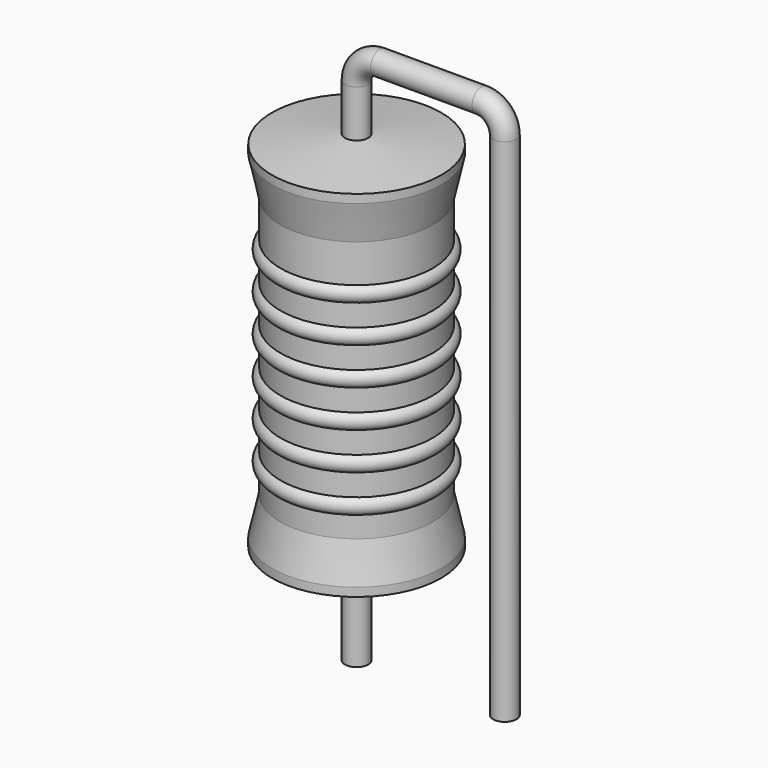
from build123d import *

# Parameters (mm, degrees)
SKETCH_R = 0.4


with BuildPart() as sweep_body:
    # Sweep: sweep along a path in Sketch001
    with BuildLine(Plane.XZ) as sweep_path:
        Line((0, -3), (0, 14.5))
        ThreePointArc((0, 14.5), (0.23431, 15.065681), (0.799987, 15.3))
        Line((0.799987, 15.3), (4.28, 15.3))
        ThreePointArc((4.28, 15.3), (4.845685, 15.065685), (5.08, 14.5))
        Line((5.08, 14.5), (5.08, -3))
    # Sketch → Sweep (sweep)
    with BuildSketch(Plane.XY.offset(-2)):
        Circle(SKETCH_R)
    sweep(path=sweep_path.line)


with BuildPart() as revolution:
    # Sketch002 → Revolution (revolve)
    with BuildSketch(Plane.XZ):
        Polygon((0, 0.1), (0, 12.9), (0.3, 12.9), (2.9, 12.58), (2.9, 12.2875), (2.61, 10.98), (2.61, 2.02), (2.9, 0.7125), (2.9, 0.42), (0.3, 0.1), align=None)
    revolve(axis=Axis((0, 0, 0), (0, 0, 1)))


with BuildPart() as revolution001:
    # Sketch003 → Revolution001 (revolve)
    with BuildSketch(Plane.XZ):
        with BuildLine():
            Line((2.32, 10.4), (2.32, 2.02))
            Line((2.32, 2.02), (2.494, 2.02))
            Line((2.494, 2.02), (2.494, 2.72))
            ThreePointArc((2.494, 2.72), (2.784, 3.01), (2.494, 3.3))
            Line((2.494, 3.3), (2.494, 4))
            ThreePointArc((2.494, 4), (2.784, 4.29), (2.494, 4.58))
            Line((2.494, 4.58), (2.494, 5.28))
            ThreePointArc((2.494, 5.28), (2.784, 5.57), (2.494, 5.86))
            Line((2.494, 5.86), (2.494, 6.56))
            ThreePointArc((2.494, 6.56), (2.784, 6.85), (2.494, 7.14))
            Line((2.494, 7.14), (2.494, 7.84))
            ThreePointArc((2.494, 7.84), (2.784, 8.13), (2.494, 8.42))
            Line((2.494, 8.42), (2.494, 9.12))
            ThreePointArc((2.494, 9.12), (2.784, 9.41), (2.494, 9.7))
            Line((2.494, 10.4), (2.494, 9.7))
            Line((2.32, 10.4), (2.494, 10.4))
        make_face()
    revolve(axis=Axis((0, 0, 0), (0, 0, 1)))


solid = Compound([sweep_body.part, revolution.part, revolution001.part])
